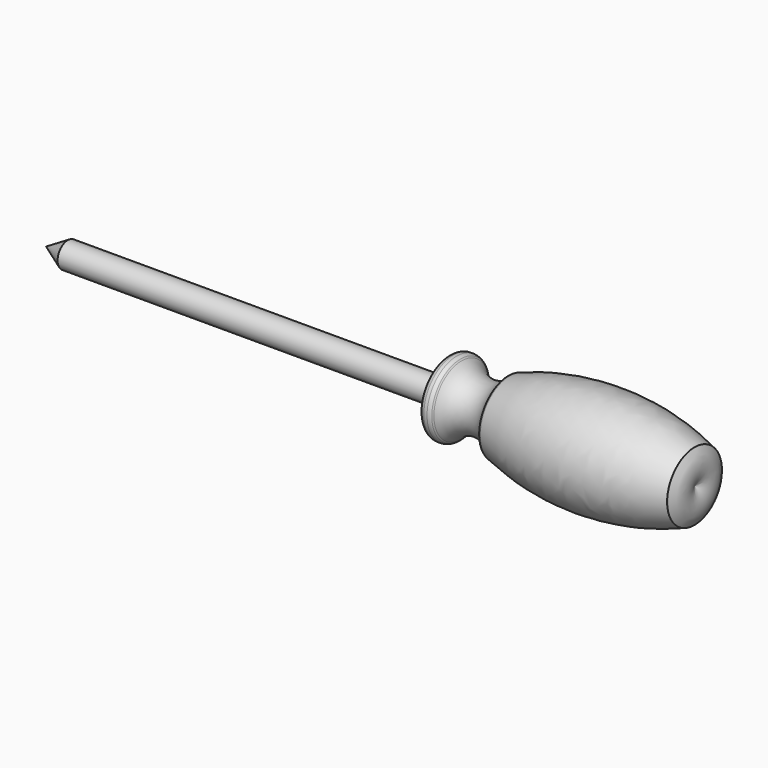
from build123d import *


with BuildPart() as f1:
    # F0 (on Front) → F1 (revolve)
    with BuildSketch(Plane.XZ):
        with BuildLine():
            Line((-132.812305, 4.268411), (-140.077679, 0))
            Line((-140.077679, 0), (76.643744, 0))
            ThreePointArc((76.643744, 0), (76.646755, 0.004182), (76.649763, 0.008365))
            ThreePointArc((76.649763, 0.008365), (78.469574, 5.658866), (76.649763, 11.309367))
            ThreePointArc((76.649763, 11.309367), (76.597879, 11.38087), (76.545346, 11.451897))
            ThreePointArc((76.545346, 11.451897), (45.824698, 17.424813), (14.928013, 12.441964))
            ThreePointArc((14.928013, 12.441964), (14.667225, 12.350473), (14.406721, 12.258177))
            ThreePointArc((14.406721, 12.258177), (6.739885, 7.912567), (-1.311198, 11.496529))
            ThreePointArc((-1.311198, 11.496529), (-1.488653, 11.720451), (-1.659494, 11.94946))
            ThreePointArc((-1.659494, 11.94946), (-2.210545, 12.305812), (-2.852501, 12.441964))
            Line((-2.852501, 12.441964), (-2.948192, 12.441964))
            Line((-2.948192, 12.441964), (-3.344335, 12.441964))
            Line((-3.344335, 12.441964), (-3.902896, 12.441964))
            ThreePointArc((-3.902896, 12.441964), (-5.220228, 11.770536), (-5.812305, 10.415684))
            Line((-5.812305, 10.415684), (-5.812305, 10.116341))
            Line((-5.812305, 10.116341), (-5.812305, 4.268411))
            Line((-5.812305, 4.268411), (-132.812305, 4.268411))
        make_face()
    revolve(axis=Axis((-31.713958, 0, 0), (1, 0, 0)))


solid = f1.part
